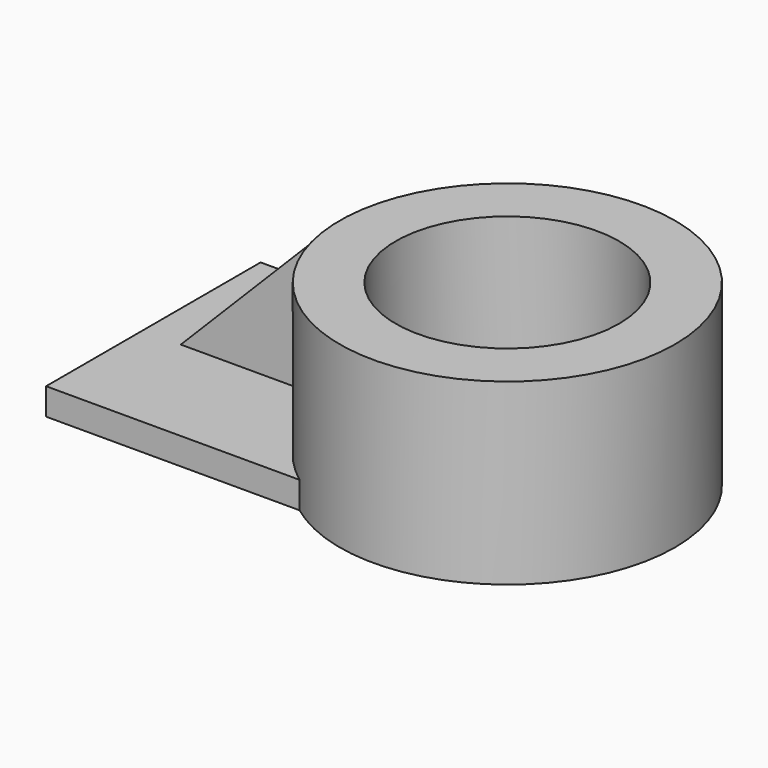
from build123d import *

# Parameters (mm, degrees)
F0_W     = 75.82964
F0_H     = 7.62
F1_DEPTH = 38.1
F3_DEPTH = 3.81
F4_R     = 47.625
F5_DEPTH = 50.8
F6_R     = 31.75
F7_DEPTH = 50.801


with BuildPart() as f1:
    # F0 (on Front) → F1 (new body, symmetric)
    with BuildSketch(Plane.XZ):
        with Locations((-37.91482, 3.81)):
            Rectangle(F0_W, F0_H)
    extrude(amount=F1_DEPTH, both=True)

    # F2 (on Front) → F3 (join, symmetric)
    with BuildSketch(Plane.XZ):
        Polygon((-22.225, 50.8), (-64.990714, 7.62), (0, 7.62), (0, 50.8), align=None)
    extrude(amount=F3_DEPTH, both=True)

    # F4 (on face) → F5 (join)
    with BuildSketch(Plane.XY.offset(50.8)):
        with Locations((24.765, 0)):
            Circle(F4_R)
    extrude(amount=-F5_DEPTH)

    # F6 (on face) → F7 (cut, through all)
    with BuildSketch(Plane.XY.offset(50.8)):
        with Locations((24.765, 0)):
            Circle(F6_R)
    extrude(amount=-F7_DEPTH, mode=Mode.SUBTRACT)


solid = f1.part
